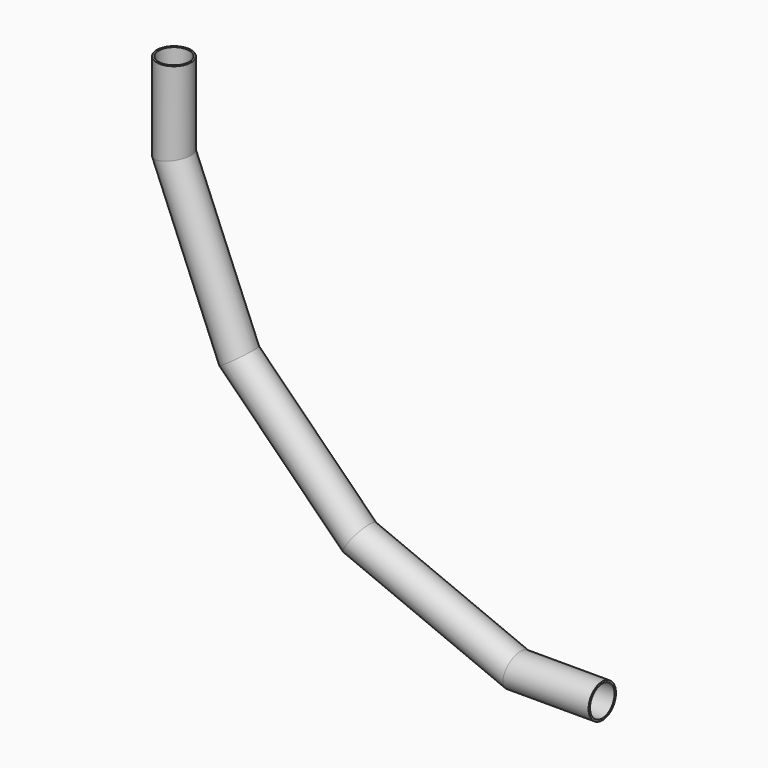
from build123d import *

# Parameters (mm, degrees)
F0_R   = 28
F0_R_2 = 25


with BuildPart() as f2:
    # F2: sweep along a path in F1
    with BuildLine(Plane.XZ) as f2_path:
        Line((700, -700), (560.7613428342, -700))
        Line((560.7613428342, -700), (303.4818518546, -593.4313455158))
        Line((303.4818518546, -593.4313455158), (106.5686544842, -396.5181481454))
        Line((106.5686544842, -396.5181481454), (0, -139.2386571658))
        Line((0, -139.2386571658), (0, 0))
    # F0 (on Top) → F2 (sweep)
    with BuildSketch(Plane.XY):
        Circle(F0_R)
        Circle(F0_R_2, mode=Mode.SUBTRACT)
    sweep(path=f2_path.line, transition=Transition.RIGHT)


solid = f2.part
